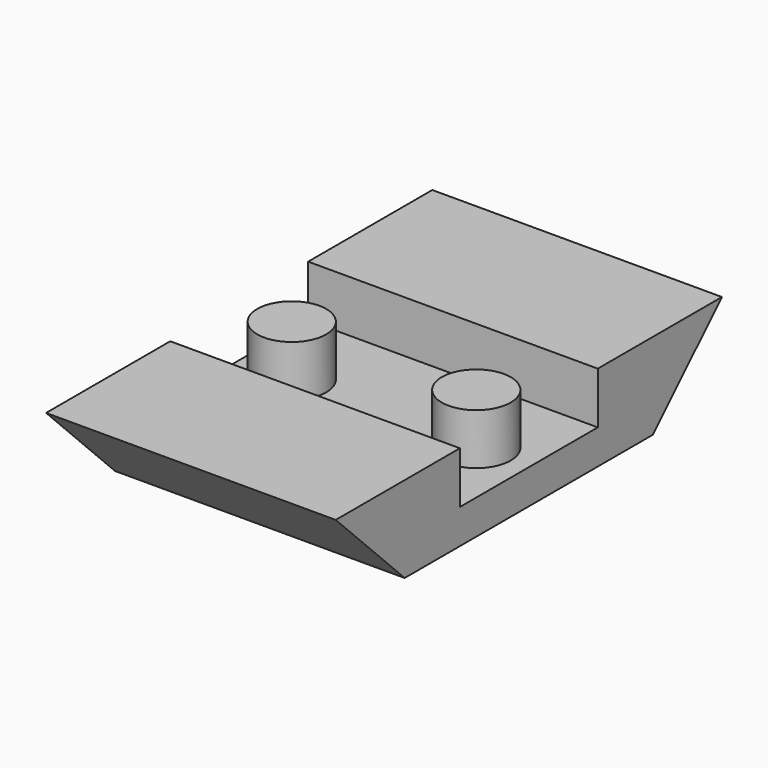
from build123d import *

# Parameters (mm, degrees)
F0_W     = 42
F0_H     = 45
F1_DEPTH = 5
F2_R     = 5
F3_DEPTH = 7.4
F4_W     = 42
F4_H     = 10
F5_DEPTH = 7.5
F7_DEPTH = 42
F9_DEPTH = 42


with BuildPart() as f1:
    # F0 (on Top) → F1 (new body)
    with BuildSketch(Plane.XY):
        Rectangle(F0_W, F0_H)
    extrude(amount=F1_DEPTH)

    # F2 (on face) → F3 (join)
    with BuildSketch(Plane.XY.offset(5)):
        with Locations((-13.378, 0)):
            Circle(F2_R)
        with Locations((13.378, 0)):
            Circle(F2_R)
    extrude(amount=F3_DEPTH)

    # F4 (on face) → F5 (join)
    with BuildSketch(Plane.XY.offset(5)):
        with Locations((0, 17.5)):
            Rectangle(F4_W, F4_H)
        with Locations((0, -17.5)):
            Rectangle(F4_W, F4_H)
    extrude(amount=F5_DEPTH)

    # F6 (on face) → F7 (join)
    with BuildSketch(Plane.YZ.offset(21)):
        Polygon((22.5, 12.5), (22.5, 0), (35, 12.5), align=None)
    extrude(amount=-F7_DEPTH)

    # F8 (on face) → F9 (join)
    with BuildSketch(Plane.YZ.offset(21)):
        Polygon((-35, 12.5), (-22.5, 0), (-22.5, 12.5), align=None)
    extrude(amount=-F9_DEPTH)


solid = f1.part
